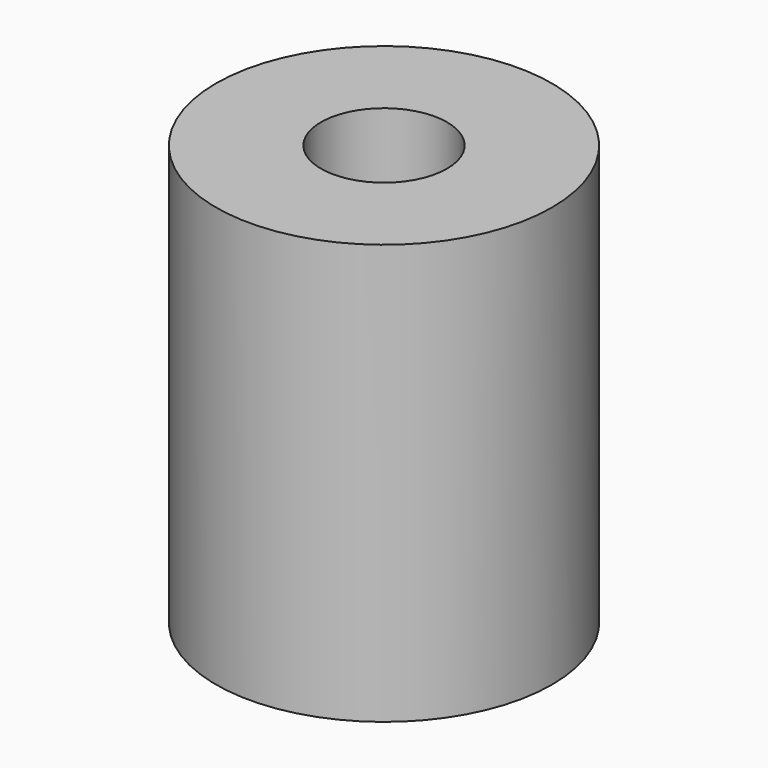
from build123d import *

# Parameters (mm, degrees)
CYLINDER006_R     = 1.5
CYLINDER006_DEPTH = 10
CYLINDER007_R     = 4
CYLINDER007_DEPTH = 10


with BuildPart() as cylinder006:
    # Cylinder006 → Cylinder006 (new body)
    with BuildSketch(Plane(origin=(-37.37, -16.69, 44), x_dir=(1, 0, 0), z_dir=(0, 0, 1))):
        Circle(CYLINDER006_R)
    extrude(amount=CYLINDER006_DEPTH)


with BuildPart() as cut013014002:
    # Cylinder007 → Cylinder007 (new body)
    with BuildSketch(Plane(origin=(-37.37, -16.69, 44), x_dir=(1, 0, 0), z_dir=(0, 0, 1))):
        Circle(CYLINDER007_R)
    extrude(amount=CYLINDER007_DEPTH)

    # Cut013014002: cut Cylinder006
    add(cylinder006.part, mode=Mode.SUBTRACT)


solid = cut013014002.part
